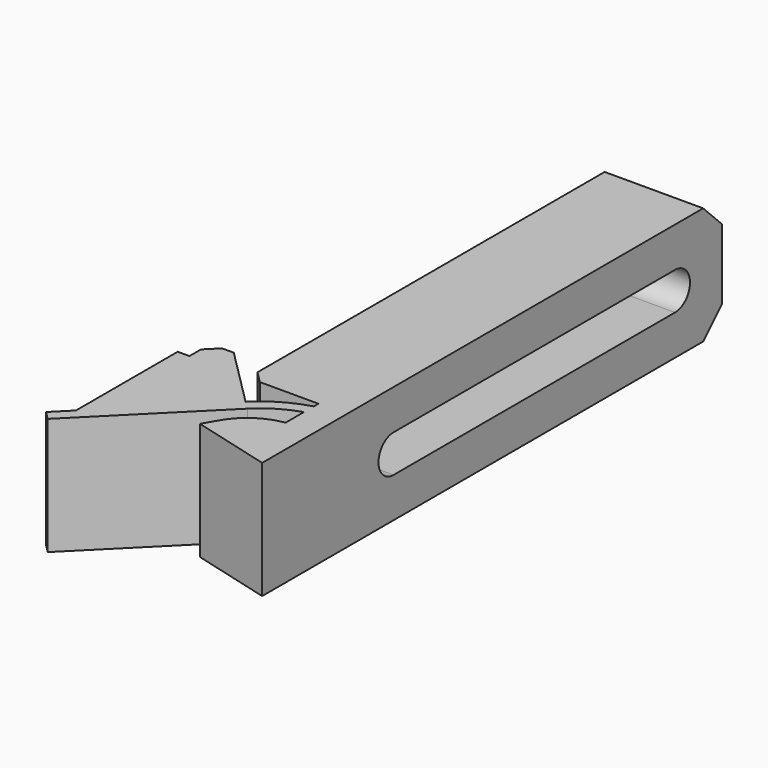
from build123d import *

# Parameters (mm, degrees)
PAD_DEPTH       = 10
POCKET_DEPTH    = 5
CHAMFER_SIZE    = 1
POCKET001_DEPTH = 4.4
CHAMFER001_SIZE = 2


with BuildPart() as part:
    # Sketch → Pad (new body)
    with BuildSketch(Plane.XY):
        with BuildLine():
            Line((0, 30), (4, 30))
            Line((4, 30), (4, 0))
            Line((4, 0), (4, -19))
            Line((4, -19), (-2.75, -17.191343))
            Line((-2.75, -17.191343), (-2.063716, -16.002664))
            ThreePointArc((1.6, -13.5), (-0.51688, -14.334081), (-2.063716, -16.002664))
            Line((1.6, -13.5), (1.6, -11.542586))
            ThreePointArc((1.6, -11.542586), (-0.147655, -12.333269), (-1.656853, -13.517244))
            Line((-11.107107, -22.967498), (-1.656853, -13.517244))
            Line((-11.814214, -22.260391), (-11.107107, -22.967498))
            Line((-10.4, -20.846177), (-11.814214, -22.260391))
            Line((-10.4, -10), (-10.4, -20.846177))
            Line((-9.4, -10), (-10.4, -10))
            Line((-9.4, -8.774099), (-9.4, -10))
            Line((-8.4, -7.774099), (-9.4, -8.774099))
            Line((-7.4, -7.774099), (-8.4, -7.774099))
            Line((-2.363961, -12.810138), (-7.4, -7.774099))
            ThreePointArc((1.6, -10.5), (-0.53166, -11.398235), (-2.363961, -12.810138))
            Line((1.6, -10.5), (1.6, -10))
            Line((1.6, -10), (-4.4, -10))
            Line((-4.4, 0), (-4.4, -10))
            Line((-4.4, 0), (-4.4, 30))
            Line((-4.4, 30), (0, 30))
        make_face()
    extrude(amount=PAD_DEPTH)

    # Sketch001 → Pocket (cut)
    with BuildSketch(Plane.YZ):
        with BuildLine():
            ThreePointArc((-5, 6.6), (-6.6, 5), (-5, 3.4))
            Line((-5, 3.4), (25, 3.4))
            ThreePointArc((25, 3.4), (26.6, 5), (25, 6.6))
            Line((-5, 6.6), (25, 6.6))
        make_face()
    extrude(amount=POCKET_DEPTH, mode=Mode.SUBTRACT)

    # Chamfer
    chamfer_edges = [part.edges().sort_by_distance(p)[0] for p in [
        (-4.4, -10, 5),
    ]]
    chamfer(chamfer_edges, length=CHAMFER_SIZE)

    # Sketch002 (on DatumPlane) → Pocket001 (cut)
    with BuildSketch(Plane(origin=(-4.4, 0, 0), x_dir=(0, -1, 0), z_dir=(-1, 0, 0))):
        Polygon((6.587713, 7.75), (8.175426, 5), (6.587713, 2.25), (-26.587713, 2.25), (-28.175426, 5), (-26.587713, 7.75), align=None)
    extrude(amount=-POCKET001_DEPTH, mode=Mode.SUBTRACT)

    # Chamfer001
    chamfer001_edges = [part.edges().sort_by_distance(p)[0] for p in [
        (-2.2, 30, 10),
        (-2.2, 30, 0),
    ]]
    chamfer(chamfer001_edges, length=CHAMFER001_SIZE)


solid = part.part
